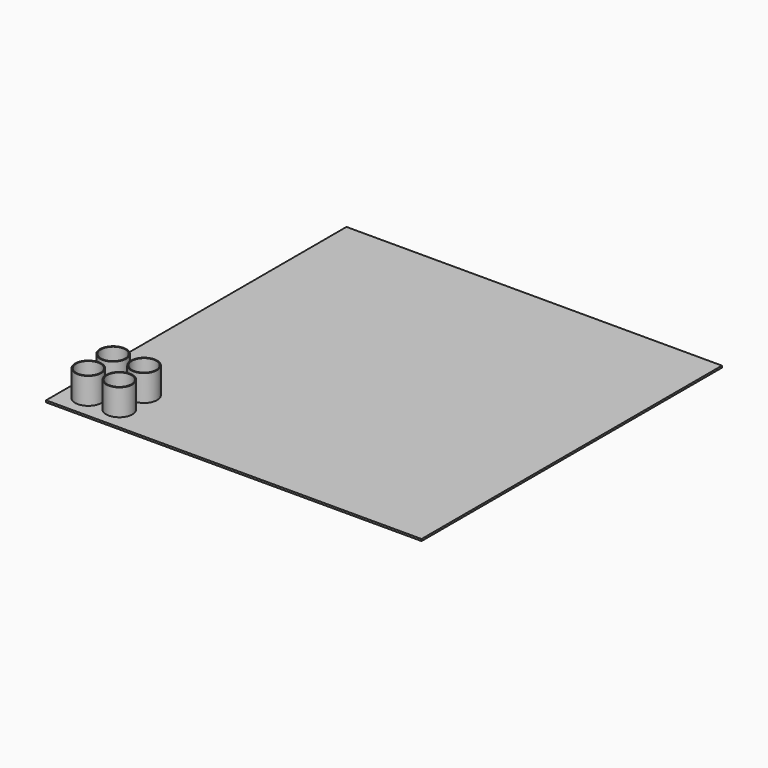
from build123d import *

# Parameters (mm, degrees)
SKETCH_W     = 400
SKETCH_H     = 400
PAD_DEPTH    = 2
SKETCH001_R  = 14
PAD001_DEPTH = 30
SKETCH002_R  = 13
HOLE_DEPTH   = 30


with BuildPart() as part:
    # Sketch → Pad (new body)
    with BuildSketch(Plane.XY):
        with Locations((200, 200)):
            Rectangle(SKETCH_W, SKETCH_H)
    extrude(amount=PAD_DEPTH)

    # Sketch001 → Pad001 (join)
    with BuildSketch(Plane.XY):
        with Locations((25, 25)):
            Circle(SKETCH001_R)
        with Locations((58, 25)):
            Circle(SKETCH001_R)
        with Locations((58, 58)):
            Circle(SKETCH001_R)
        with Locations((25, 58)):
            Circle(SKETCH001_R)
    extrude(amount=PAD001_DEPTH)

    # Sketch002 → Hole (cut)
    with BuildSketch(Plane.XY):
        with Locations((25, 58)):
            Circle(SKETCH002_R)
        with Locations((58, 58)):
            Circle(SKETCH002_R)
        with Locations((58, 25)):
            Circle(SKETCH002_R)
        with Locations((25, 25)):
            Circle(SKETCH002_R)
    extrude(amount=HOLE_DEPTH, mode=Mode.SUBTRACT)


solid = part.part
